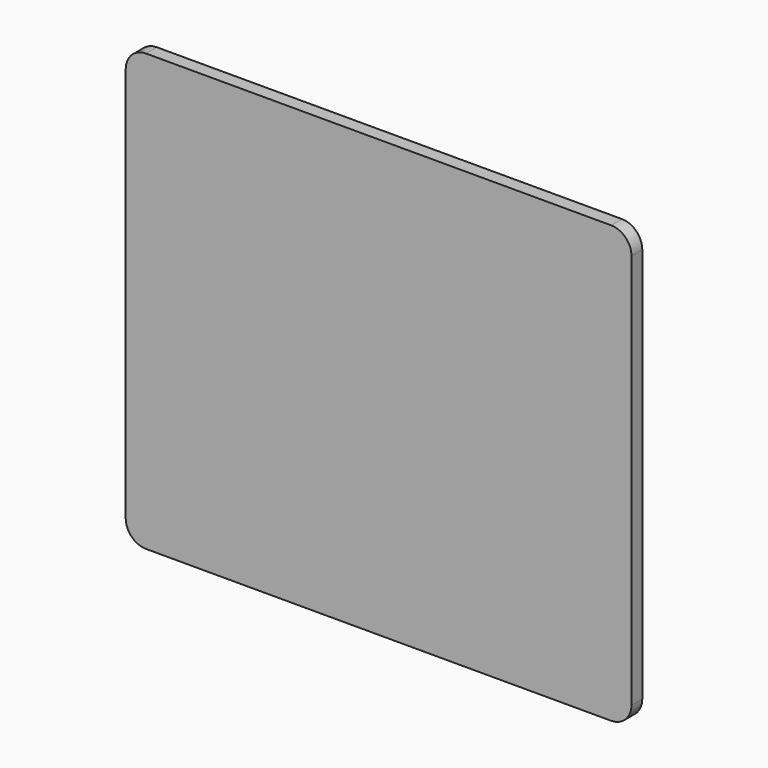
from build123d import *

# Parameters (mm, degrees)
PAD_DEPTH = 10


with BuildPart() as part:
    # Sketch → Pad (new body)
    with BuildSketch(Plane.XZ):
        with BuildLine():
            Line((15.046216, 0.019959), (358.366216, 0.019959))
            ThreePointArc((358.366216, 0.019959), (368.972817, 4.413357), (373.366216, 15.019959))
            Line((373.366216, 15.019959), (373.366216, 306.999959))
            ThreePointArc((373.366216, 306.999959), (368.972817, 317.60656), (358.366216, 321.999959))
            Line((358.366216, 321.999959), (15.046216, 321.999959))
            ThreePointArc((15.046216, 321.999959), (4.439614, 317.60656), (0.046216, 306.999959))
            Line((0.046216, 306.999959), (0.046216, 15.019959))
            ThreePointArc((0.046216, 15.019959), (4.439614, 4.413357), (15.046216, 0.019959))
        make_face()
    extrude(amount=PAD_DEPTH)


solid = part.part
